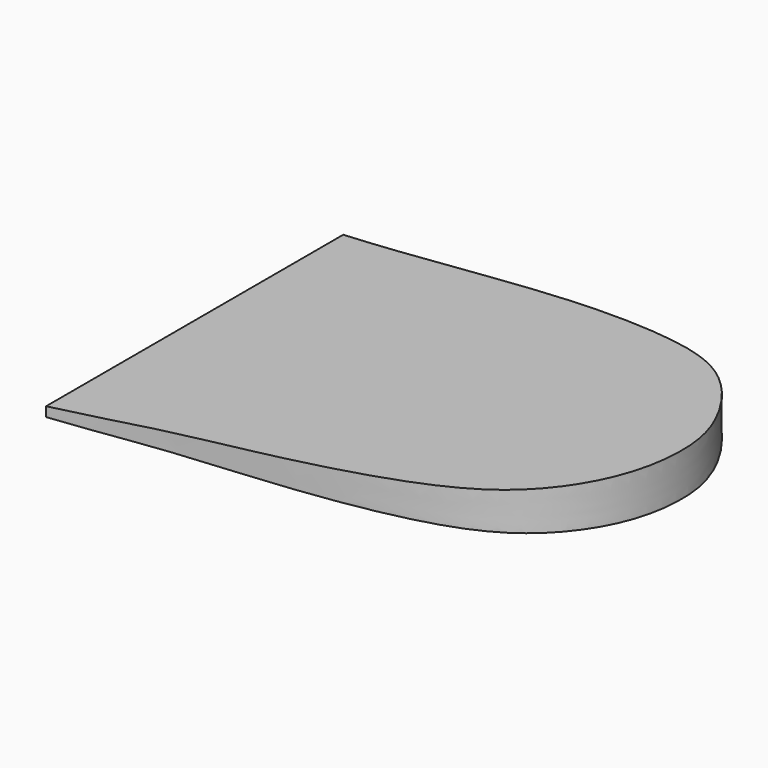
from build123d import *

# Parameters (mm, degrees)
EXTRUDE001_DEPTH = 50
EXTRUDE_DEPTH    = 20


with BuildPart() as extrude001:
    # Sketch001 → Extrude001 (new body, symmetric)
    with BuildSketch(Plane.XZ):
        Polygon((163, 9), (163, 0), (63, 0), (63, 2), align=None)
    extrude(amount=EXTRUDE001_DEPTH, both=True)


with BuildPart() as sole_common:
    # Sketch → Extrude (new body)
    with BuildSketch(Plane.XY):
        with BuildLine():
            add(Edge.make_bspline(
                [(28.527908, 30.070617), (53.668641, 29.161806), (71.252917, 28.006371), (108.907617, 29.659132), (135.37605, 26.370678), (150.307866, 20.28509), (161.410475, 4.248986), (163.096412, -8.34086), (160.0501, -21.375878), (150.331285, -33.60816), (135.221568, -40.006538), (111.481583, -44.060017), (85.872957, -45.814744), (72.385785, -48.096242), (55.603022, -49.861314), (40.08293, -51.615038), (23.883279, -51.7761), (0, -57.105208), (0, 36.015467), (28.527908, 30.070617)],
                knots=[0, 0, 0, 0, 0.058824, 0.117647, 0.176471, 0.235294, 0.294118, 0.352941, 0.411765, 0.470588, 0.529412, 0.588235, 0.647059, 0.705882, 0.764706, 0.823529, 0.882353, 0.941176, 1, 1, 1, 1], degree=3, weights=[1, 1, 1, 1, 1, 1, 1, 1, 1, 1, 1, 1, 1, 1, 1, 0.379422, 1, 1, 1, 1]))
        make_face()
    extrude(amount=EXTRUDE_DEPTH)

    # Common: intersect Extrude001
    add(extrude001.part, mode=Mode.INTERSECT)


solid = sole_common.part
